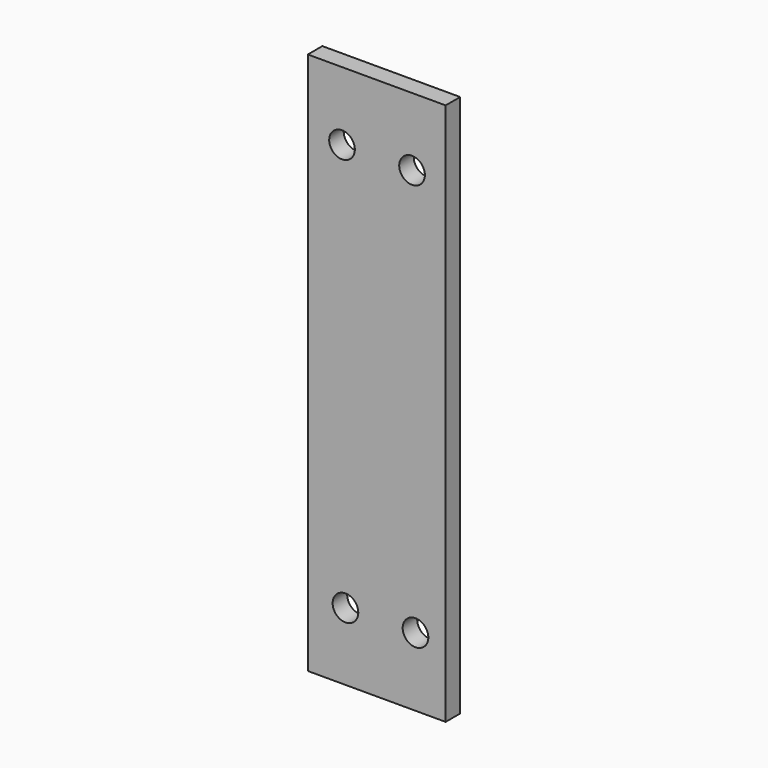
from build123d import *

# Parameters (mm, degrees)
F0_W     = 102.39375
F0_H     = 403.225
F1_DEPTH = 13.49375
F2_R     = 9.525
F3_DEPTH = 13.49475


with BuildPart() as f1:
    # F0 (on Front) → F1 (new body)
    with BuildSketch(Plane.XZ):
        with Locations((-1.717836, 118.666509)):
            Rectangle(F0_W, F0_H)
    extrude(amount=F1_DEPTH)

    # F2 (on face) → F3 (cut, through all)
    with BuildSketch(Plane.XZ.offset(13.49375)):
        with Locations((-27.514711, 269.479009)):
            Circle(F2_R)
        with Locations((24.510936, 269.700651)):
            Circle(F2_R)
        with Locations((-24.94099, -32.57831)):
            Circle(F2_R)
        with Locations((27.080879, -31.913401)):
            Circle(F2_R)
    extrude(amount=-F3_DEPTH, mode=Mode.SUBTRACT)


solid = f1.part
